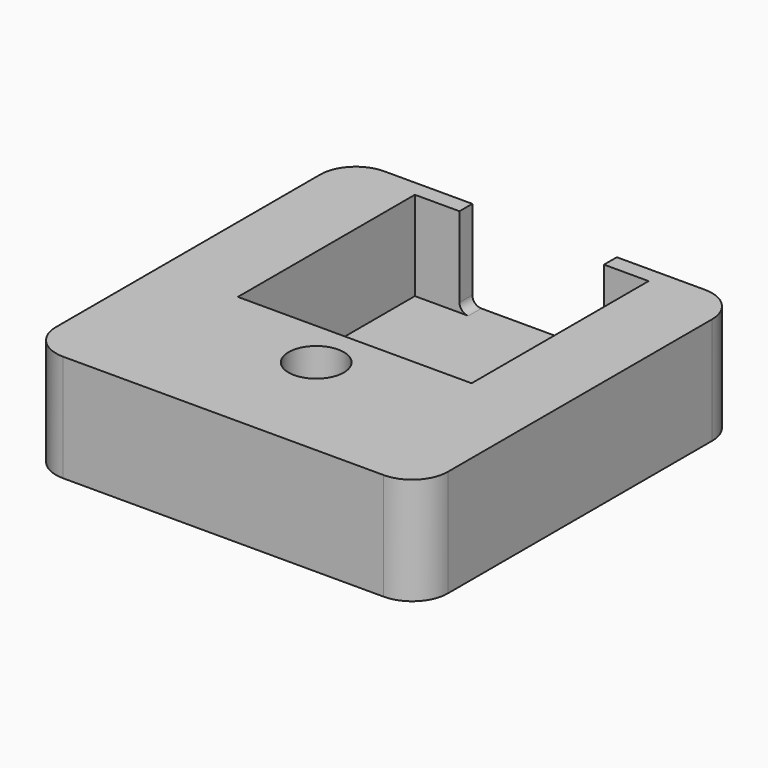
from build123d import *

# Parameters (mm, degrees)
SKETCH_W        = 43.922756
SKETCH_H        = 45
SKETCH_R        = 3.1
PAD_DEPTH       = 12
SKETCH001_W     = 26.2
SKETCH001_H     = 24.8
POCKET_DEPTH    = 10
SKETCH002_R     = 5
POCKET001_DEPTH = 1
FILLET_R        = 4
SKETCH003_W     = 16.2
SKETCH003_H     = 10
POCKET002_DEPTH = 5
FILLET001_R     = 1


with BuildPart() as part:
    # Sketch → Pad (new body)
    with BuildSketch(Plane.XY):
        with Locations((0, 9.5)):
            Rectangle(SKETCH_W, SKETCH_H)
        Circle(SKETCH_R, mode=Mode.SUBTRACT)
    extrude(amount=PAD_DEPTH)

    # Sketch001 (on Face7 of Pad) → Pocket (cut)
    with BuildSketch(Plane.XY.offset(12)):
        with Locations((0, 17.8)):
            Rectangle(SKETCH001_W, SKETCH001_H)
    extrude(amount=-POCKET_DEPTH, mode=Mode.SUBTRACT)

    # Sketch002 (on Face4 of Pocket) → Pocket001 (cut)
    with BuildSketch(Plane(origin=(0, 0, 0), x_dir=(1, 0, 0), z_dir=(0, 0, -1))):
        Circle(SKETCH002_R)
    extrude(amount=-POCKET001_DEPTH, mode=Mode.SUBTRACT)

    # Fillet
    fillet_edges = [part.edges().sort_by_distance(p)[0] for p in [
        (21.961378, 32, 6),
        (-21.961378, 32, 6),
        (21.961378, -13, 6),
        (-21.961378, -13, 6),
    ]]
    fillet(fillet_edges, radius=FILLET_R)

    # Sketch003 (on Face16 of Fillet) → Pocket002 (cut)
    with BuildSketch(Plane.XZ.offset(-30.2)):
        with Locations((0, 7)):
            Rectangle(SKETCH003_W, SKETCH003_H)
    extrude(amount=-POCKET002_DEPTH, mode=Mode.SUBTRACT)

    # Fillet001
    fillet001_edges = [part.edges().sort_by_distance(p)[0] for p in [
        (8.1, 31.1, 2),
        (-8.1, 31.1, 2),
    ]]
    fillet(fillet001_edges, radius=FILLET001_R)


solid = part.part
